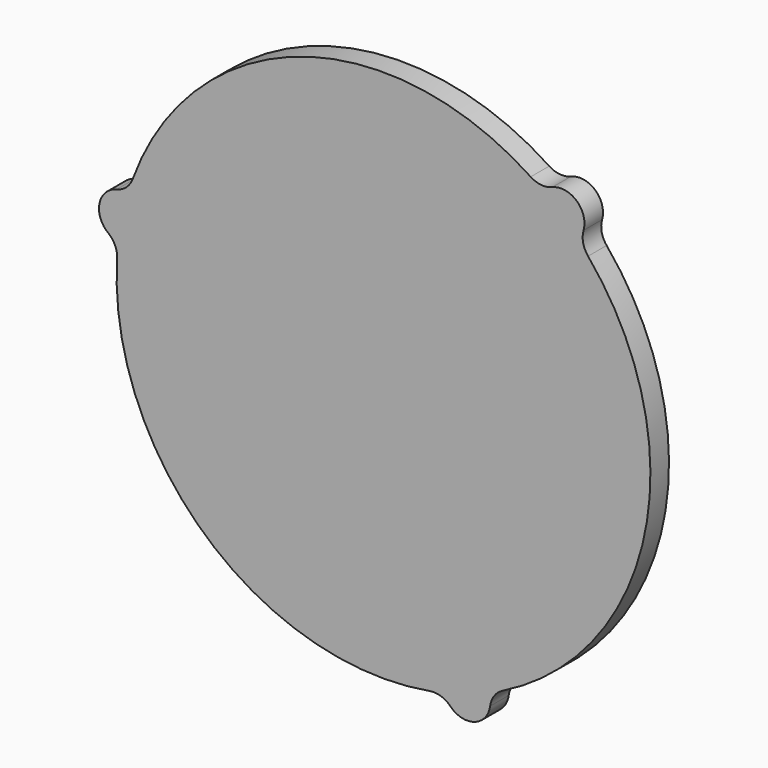
from build123d import *

# Parameters (mm, degrees)
F1_DEPTH = 6.35
F2_DEPTH = 6.35


with BuildPart() as f1:
    # F0 (on Front) → F1 (new body)
    with BuildSketch(Plane.XZ):
        with BuildLine():
            ThreePointArc((46.19652, 60.349645), (43.160779, 59.896273), (40.267036, 60.919754))
            ThreePointArc((40.267036, 60.919754), (-22.87068, 69.351155), (-68.606756, 25.015267))
            ThreePointArc((-68.606756, 25.015267), (-70.323983, 22.471177), (-73.033881, 21.029748))
            ThreePointArc((-73.033881, 21.029748), (-77.712175, 16.161943), (-75.362586, 9.832537))
            ThreePointArc((-75.362586, 9.832537), (-73.452084, 7.430195), (-72.891573, 4.412399))
            ThreePointArc((-72.891573, 4.412399), (-48.624522, -54.482167), (12.639521, -71.922828))
            ThreePointArc((12.639521, -71.922828), (15.701382, -72.137945), (18.304645, -73.764071))
            ThreePointArc((18.304645, -73.764071), (24.859434, -75.38169), (29.166066, -70.182182))
            ThreePointArc((29.166066, -70.182182), (30.291304, -67.326468), (32.624537, -65.332153))
            ThreePointArc((32.624537, -65.332153), (71.495201, -14.868988), (55.967235, 46.90756))
            ThreePointArc((55.967235, 46.90756), (54.622602, 49.666768), (54.729237, 52.734323))
            ThreePointArc((54.729237, 52.734323), (52.852741, 59.219747), (46.19652, 60.349645))
        make_face()
    extrude(amount=F1_DEPTH)

    # F0 (on Front) → F2 (join)
    with BuildSketch(Plane.XZ):
        with BuildLine():
            ThreePointArc((46.19652, 60.349645), (43.160779, 59.896273), (40.267036, 60.919754))
            ThreePointArc((40.267036, 60.919754), (-22.87068, 69.351155), (-68.606756, 25.015267))
            ThreePointArc((-68.606756, 25.015267), (-70.323983, 22.471177), (-73.033881, 21.029748))
            ThreePointArc((-73.033881, 21.029748), (-77.712175, 16.161943), (-75.362586, 9.832537))
            ThreePointArc((-75.362586, 9.832537), (-73.452084, 7.430195), (-72.891573, 4.412399))
            ThreePointArc((-72.891573, 4.412399), (-48.624522, -54.482167), (12.639521, -71.922828))
            ThreePointArc((12.639521, -71.922828), (15.701382, -72.137945), (18.304645, -73.764071))
            ThreePointArc((18.304645, -73.764071), (24.859434, -75.38169), (29.166066, -70.182182))
            ThreePointArc((29.166066, -70.182182), (30.291304, -67.326468), (32.624537, -65.332153))
            ThreePointArc((32.624537, -65.332153), (71.495201, -14.868988), (55.967235, 46.90756))
            ThreePointArc((55.967235, 46.90756), (54.622602, 49.666768), (54.729237, 52.734323))
            ThreePointArc((54.729237, 52.734323), (52.852741, 59.219747), (46.19652, 60.349645))
        make_face()
    extrude(amount=F2_DEPTH)


solid = f1.part
